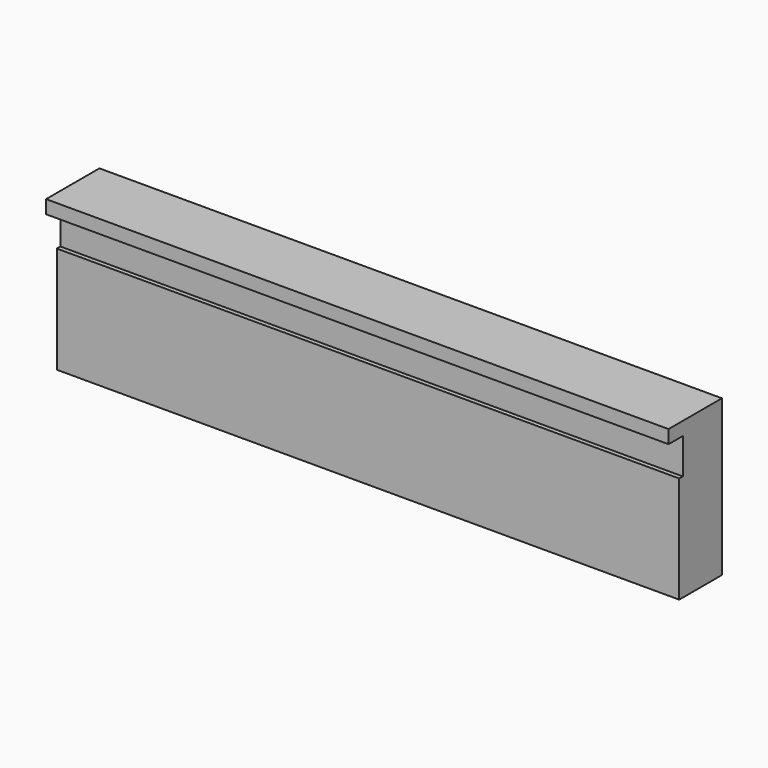
from build123d import *

# Parameters (mm, degrees)
F0_W     = 140
F0_H     = 35
F1_DEPTH = 15
F3_DEPTH = 140


with BuildPart() as f1:
    # F0 (on Front) → F1 (new body)
    with BuildSketch(Plane.XZ):
        Rectangle(F0_W, F0_H)
    extrude(amount=F1_DEPTH)

    # F2 (on face) → F3 (cut, through all)
    with BuildSketch(Plane.YZ.offset(70)):
        Polygon((-15, 14.5), (-15, -17.5), (-12, -17.5), (-12, 6.5), (-11, 6.5), (-11, 14.5), align=None)
    extrude(amount=-F3_DEPTH, mode=Mode.SUBTRACT)


solid = f1.part
